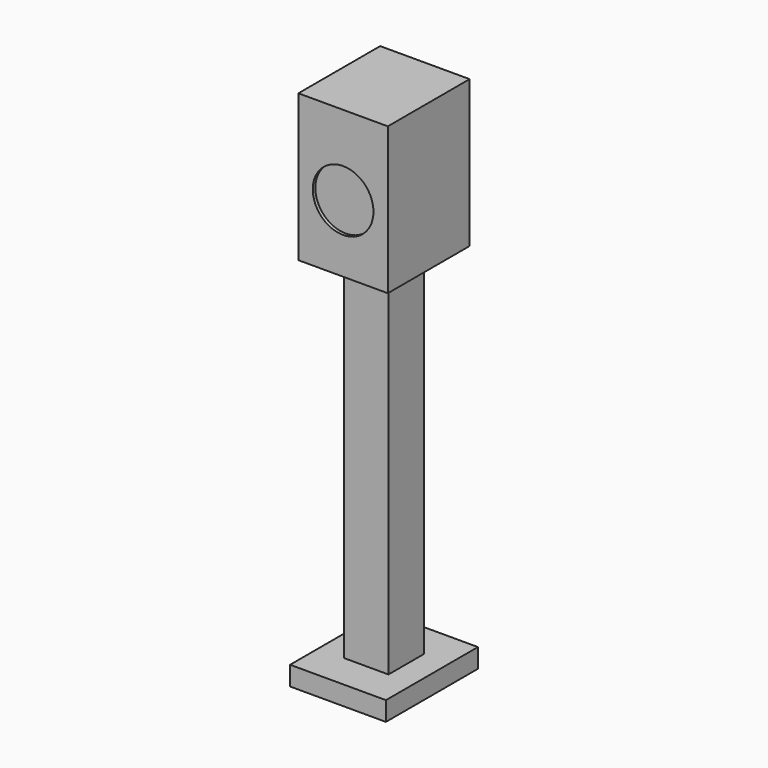
from build123d import *

# Parameters (mm, degrees)
F0_W      = 177.8
F0_H      = 203.2
F1_DEPTH  = 292.1
F6_R      = 60.325
F2_DEPTH  = 6.35
F3_W      = 127
F3_H      = 177.8
F7_DEPTH  = 6.35
F8_W      = 88.9
F8_H      = 88.9
F9_DEPTH  = 698.5
F4_W      = 50.8
F4_H      = 50.8
F10_DEPTH = 38.1
F5_W      = 190.5
F5_H      = 228.6
F5_W_2    = 50.8
F5_H_2    = 50.8
F11_DEPTH = 38.1


with BuildPart() as f1:
    # F0 (on Top) → F1 (new body)
    with BuildSketch(Plane.XY):
        Rectangle(F0_W, F0_H)
    extrude(amount=F1_DEPTH)

    # F6 (on face) → F2 (cut)
    with BuildSketch(Plane.XZ.offset(101.6)):
        with Locations((0, 133.35)):
            Circle(F6_R)
    extrude(amount=-F2_DEPTH, mode=Mode.SUBTRACT)


with BuildPart() as f7:
    # F3 (on face) → F7 (new body)
    with BuildSketch(Plane(origin=(0, 0, 0), x_dir=(1, 0, 0), z_dir=(0, 0, -1))):
        Rectangle(F3_W, F3_H)
    extrude(amount=F7_DEPTH)


with BuildPart() as f9:
    # F8 (on face) → F9 (new body)
    with BuildSketch(Plane(origin=(0, 0, -6.35), x_dir=(1, 0, 0), z_dir=(0, 0, -1))):
        Rectangle(F8_W, F8_H)
    extrude(amount=F9_DEPTH)

    # F4 (on face) → F10 (join)
    with BuildSketch(Plane(origin=(0, 0, -704.85), x_dir=(1, 0, 0), z_dir=(0, 0, -1))):
        Rectangle(F4_W, F4_H)
    extrude(amount=F10_DEPTH)


with BuildPart() as f11:
    # F5 (on face) → F11 (new body, through all)
    with BuildSketch(Plane(origin=(0, 0, -704.85), x_dir=(1, 0, 0), z_dir=(0, 0, -1))):
        Rectangle(F5_W, F5_H)
        Rectangle(F5_W_2, F5_H_2, mode=Mode.SUBTRACT)
        Rectangle(F5_W, F5_H)
        Rectangle(F5_W_2, F5_H_2, mode=Mode.SUBTRACT)
    extrude(amount=F11_DEPTH)


solid = Compound([f1.part, f7.part, f9.part, f11.part])
